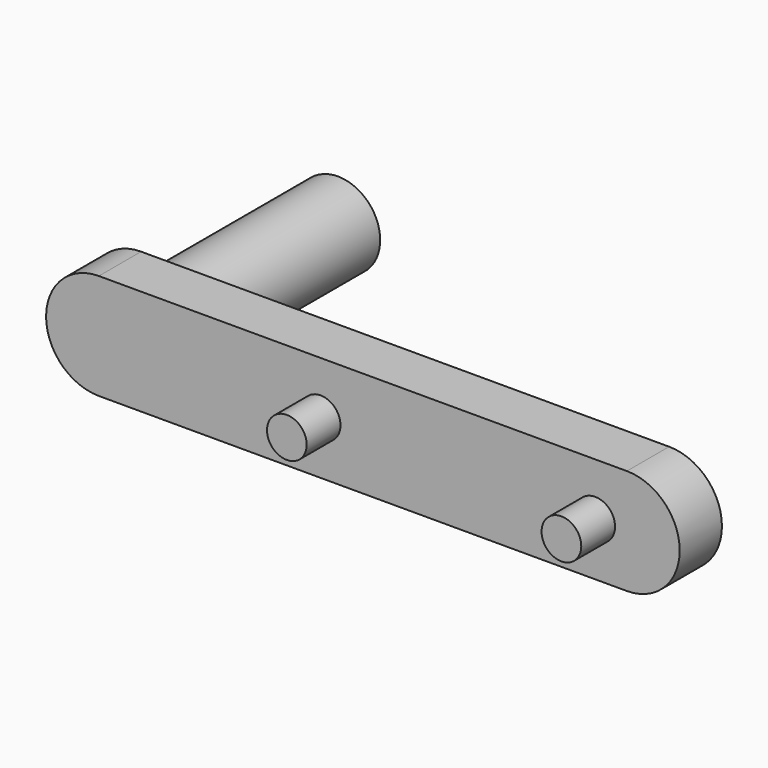
from build123d import *

# Parameters (mm, degrees)
F1_DEPTH = 3.175
F2_R     = 1.1938
F3_DEPTH = 2.54
F4_R     = 1.1938
F5_DEPTH = 2.54
F6_R     = 2.54
F7_DEPTH = 12.7


with BuildPart() as f1:
    # F0 (on Front) → F1 (new body)
    with BuildSketch(Plane.XZ):
        with BuildLine():
            Line((31.75, 3.175), (0, 3.175))
            ThreePointArc((0, 3.175), (-3.175, 0), (0, -3.175))
            Line((0, -3.175), (31.75, -3.175))
            ThreePointArc((31.75, -3.175), (34.925, 0), (31.75, 3.175))
        make_face()
    extrude(amount=F1_DEPTH)

    # F2 (on face) → F3 (join)
    with BuildSketch(Plane.XZ.offset(3.175)):
        with Locations((13.335, 0)):
            Circle(F2_R)
    extrude(amount=F3_DEPTH)

    # F4 (on face) → F5 (join)
    with BuildSketch(Plane.XZ.offset(3.175)):
        with Locations((29.845, 0)):
            Circle(F4_R)
    extrude(amount=F5_DEPTH)

    # F6 (on face) → F7 (join)
    with BuildSketch(Plane(origin=(0, 0, 0), x_dir=(-1, 0, 0), z_dir=(0, 1, 0))):
        with Locations((-1.6764, 0)):
            Circle(F6_R)
    extrude(amount=F7_DEPTH)


solid = f1.part
